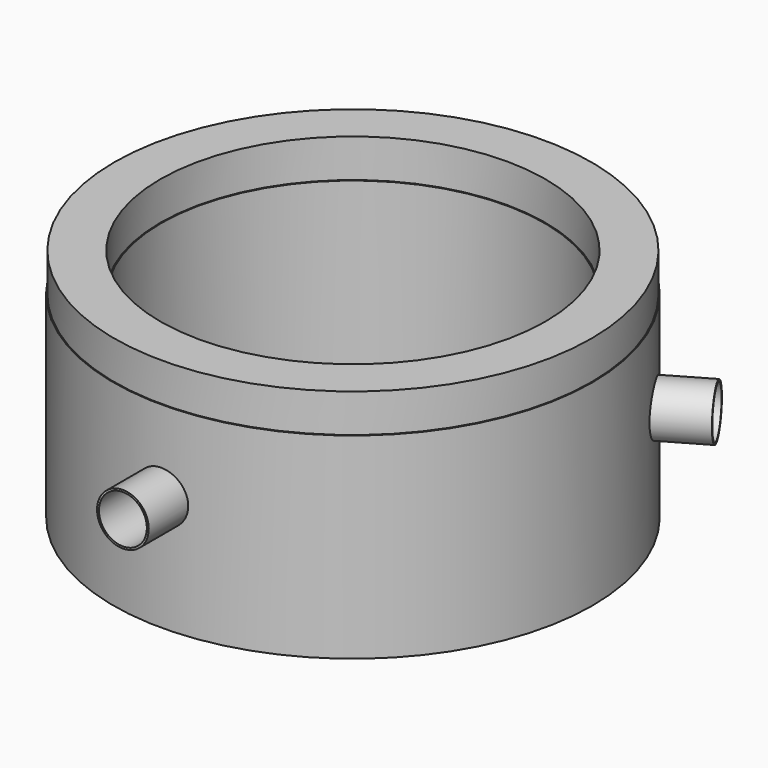
from build123d import *

# Parameters (mm, degrees)
F2_R     = 25
F3_DEPTH = 661
F5_R     = 27
F5_R_2   = 25
F6_DEPTH = 50
F7_COUNT = 3


with BuildPart() as f1:
    # F0 (on Front) → F1 (revolve)
    with BuildSketch(Plane.XZ):
        Polygon((-201, -489.7526234735), (-200, -489.7526234735), (-200, -284.7526234735), (-201, -284.7526234735), (-201, -244.7526234735), (-249, -244.7526234735), (-249, -284.7526234735), (-250, -284.7526234735), (-250, -489.7526234735), (-249, -489.7526234735), (-249, -449.7526234735), (-201, -449.7526234735), align=None)
    revolve(axis=Axis((0, 0, -77.0492781825), (0, 0, -1)))

    # F2 (on Front) → F3 (cut)
    with BuildSketch(Plane.XZ):
        with Locations((0, -369.7526234735)):
            Circle(F2_R)
    extrude(amount=F3_DEPTH, mode=Mode.SUBTRACT)

    # F5 (on offset) → F6 (join, symmetric)
    with BuildSketch(Plane.XZ.offset(250)):
        with Locations((0, -369.7526234735)):
            Circle(F5_R)
        with Locations((0, -369.7526234735)):
            Circle(F5_R_2, mode=Mode.SUBTRACT)
    extrude(amount=F6_DEPTH, both=True)

    # F7: F1 ×3 about axis
    f7_axis = Axis((0, 0, -369.7526234735), (0, 0, -1))


with BuildPart() as f1_1:
    add(f1.part)
    for i in range(1, F7_COUNT):
        add(f1.part.rotate(f7_axis, i * 360 / F7_COUNT))


solid = f1_1.part
